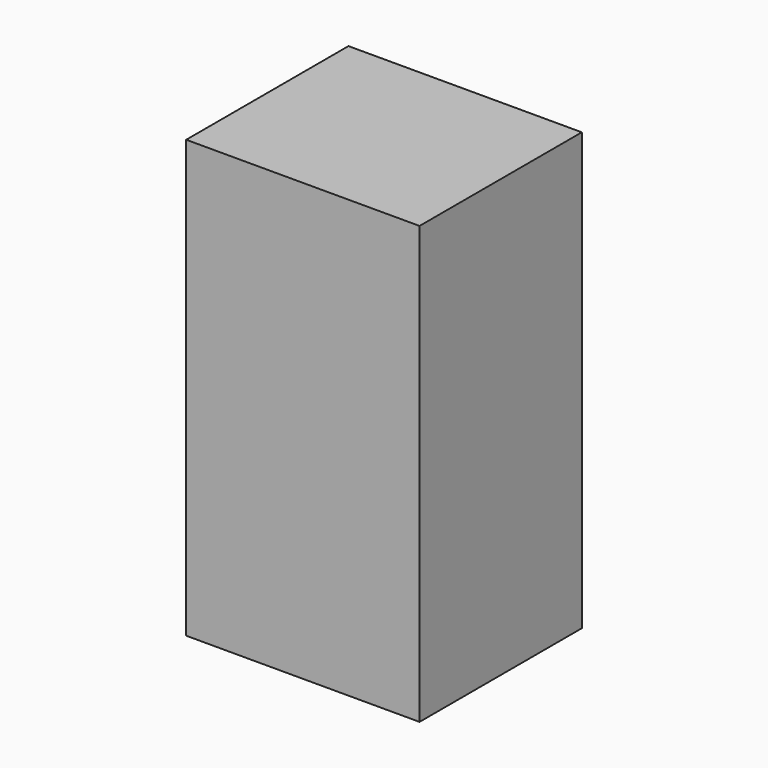
from build123d import *

# Parameters (mm, degrees)
F2_W     = 67.8694173694
F2_H     = 58.99079144
F3_DEPTH = 127
F1_W     = 67.8694173694
F1_H     = 58.99079144


with BuildPart() as f3:
    # F2 (on face) → F3 (new body)
    with BuildSketch(Plane.XY):
        with Locations((2.416651696, -3.2847002149)):
            Rectangle(F2_W, F2_H)
    extrude(amount=F3_DEPTH)


with BuildPart() as f3b:
    # F1 (on Top) → F3, piece 2 (new body)
    with BuildSketch(Plane.XY):
        with Locations((2.416651696, -3.2847002149)):
            Rectangle(F1_W, F1_H)
    extrude(amount=F3_DEPTH)


solid = Compound([f3.part, f3b.part])
